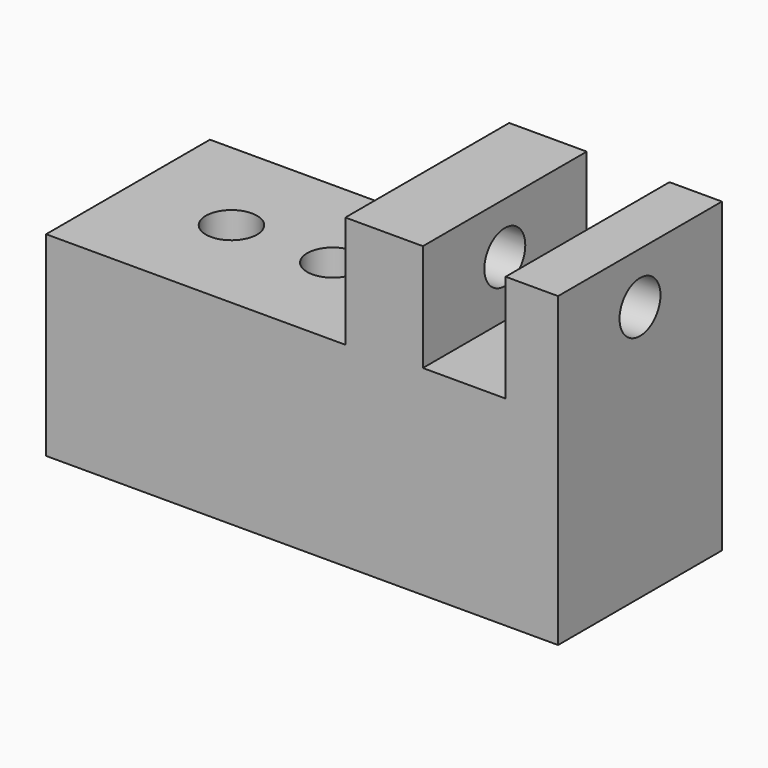
from build123d import *

# Parameters (mm, degrees)
F0_W      = 127
F0_H      = 76.2
F1_DEPTH  = 50.8
F2_W      = 20.5224603415
F2_H      = 26.6085443914
F3_DEPTH  = 50.8
F4_W      = 74.2317289114
F4_H      = 27.7849985182
F5_DEPTH  = 50.8
F6_R      = 6.35
F7_DEPTH  = 127.001
F8_R      = 6.35
F9_DEPTH  = 48.4150014818
F10_R     = 6.35
F11_DEPTH = 48.4150014818
F13_T     = -2.54
F14_W     = 121.92
F14_H     = 45.72
F14_R     = 8.89
F15_DEPTH = 2.54


with BuildPart() as f1:
    # F0 (on Front) → F1 (new body)
    with BuildSketch(Plane.XZ):
        with Locations((63.5, 38.1)):
            Rectangle(F0_W, F0_H)
    extrude(amount=F1_DEPTH)

    # F2 (on face) → F3 (cut, through all)
    with BuildSketch(Plane.XZ.offset(50.8)):
        with Locations((103.7281528115, 62.8957278043)):
            Rectangle(F2_W, F2_H)
    extrude(amount=-F3_DEPTH, mode=Mode.SUBTRACT)

    # F4 (on face) → F5 (cut, through all)
    with BuildSketch(Plane.XZ.offset(50.8)):
        with Locations((37.1158644557, 62.3075007409)):
            Rectangle(F4_W, F4_H)
    extrude(amount=-F5_DEPTH, mode=Mode.SUBTRACT)

    # F6 (on face) → F7 (cut, through all)
    with BuildSketch(Plane.YZ.offset(127)):
        with Locations((-25.4, 63.5)):
            Circle(F6_R)
    extrude(amount=-F7_DEPTH, mode=Mode.SUBTRACT)

    # F8 (on face) → F9 (cut, through all)
    with BuildSketch(Plane.XY.offset(48.4150014818)):
        with Locations((50.8, -25.4)):
            Circle(F8_R)
    extrude(amount=-F9_DEPTH, mode=Mode.SUBTRACT)

    # F10 (on face) → F11 (cut, through all)
    with BuildSketch(Plane.XY.offset(48.4150014818)):
        with Locations((25.665640831, -25.4)):
            Circle(F10_R)
    extrude(amount=-F11_DEPTH, mode=Mode.SUBTRACT)

    # F13
    f13_openings = [f1.faces().sort_by_distance(p)[0] for p in [
        (64.532798, -25.4, 0),
    ]]
    offset(amount=F13_T, openings=f13_openings, kind=Kind.INTERSECTION)


with BuildPart() as f15:
    # F14 (on offset) → F15 (new body)
    with BuildSketch(Plane(origin=(0, 0, 0), x_dir=(1, 0, 0), z_dir=(0, 0, -1))):
        with Locations((63.5, 25.4)):
            Rectangle(F14_W, F14_H)
        with Locations((25.665640831, 25.4)):
            Circle(F14_R, mode=Mode.SUBTRACT)
        with Locations((50.8, 25.4)):
            Circle(F14_R, mode=Mode.SUBTRACT)
    extrude(amount=-F15_DEPTH)


solid = Compound([f1.part, f15.part])
